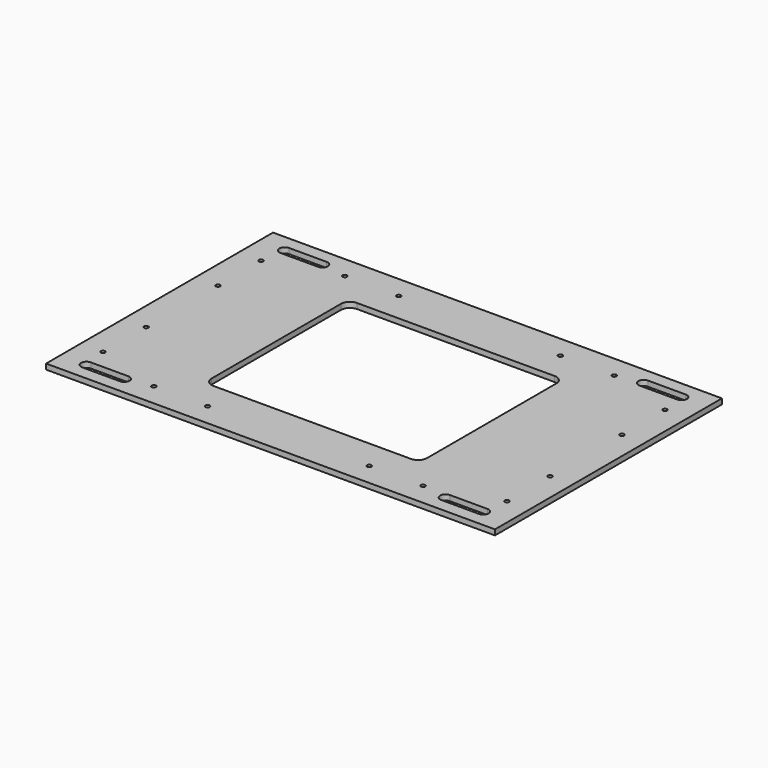
from build123d import *

# Parameters (mm, degrees)
F0_W     = 250
F0_H     = 158
F0_R     = 1.2
F0_W_2   = 120
F0_H_2   = 100
F1_DEPTH = 3
F2_R     = 5


with BuildPart() as f1:
    # F0 (on Top) → F1 (new body)
    with BuildSketch(Plane.XY):
        Rectangle(F0_W, F0_H)
        with BuildLine():
            ThreePointArc((-89.5, -66), (-86.5, -69), (-89.5, -72))
            Line((-89.5, -72), (-110.5, -72))
            ThreePointArc((-110.5, -72), (-113.5, -69), (-110.5, -66))
            Line((-110.5, -66), (-89.5, -66))
        make_face(mode=Mode.SUBTRACT)
        with Locations((-75, -66.5)):
            Circle(F0_R, mode=Mode.SUBTRACT)
        with Locations((-112.5, -55)):
            Circle(F0_R, mode=Mode.SUBTRACT)
        with Locations((-45, -66.5)):
            Circle(F0_R, mode=Mode.SUBTRACT)
        with Locations((-112.5, -25)):
            Circle(F0_R, mode=Mode.SUBTRACT)
        with Locations((45, -66.5)):
            Circle(F0_R, mode=Mode.SUBTRACT)
        with Locations((75, -66.5)):
            Circle(F0_R, mode=Mode.SUBTRACT)
        with BuildLine():
            ThreePointArc((89.5, -72), (86.5, -69), (89.5, -66))
            Line((89.5, -66), (110.5, -66))
            ThreePointArc((110.5, -66), (113.5, -69), (110.5, -72))
            Line((110.5, -72), (89.5, -72))
        make_face(mode=Mode.SUBTRACT)
        with Locations((112.5, -55)):
            Circle(F0_R, mode=Mode.SUBTRACT)
        with Locations((112.5, -25)):
            Circle(F0_R, mode=Mode.SUBTRACT)
        with Locations((-112.5, 25)):
            Circle(F0_R, mode=Mode.SUBTRACT)
        with Locations((-112.5, 55)):
            Circle(F0_R, mode=Mode.SUBTRACT)
        with BuildLine():
            ThreePointArc((-89.5, 72), (-86.5, 69), (-89.5, 66))
            Line((-89.5, 66), (-110.5, 66))
            ThreePointArc((-110.5, 66), (-113.5, 69), (-110.5, 72))
            Line((-110.5, 72), (-89.5, 72))
        make_face(mode=Mode.SUBTRACT)
        with Locations((-75, 66.5)):
            Circle(F0_R, mode=Mode.SUBTRACT)
        with Locations((-45, 66.5)):
            Circle(F0_R, mode=Mode.SUBTRACT)
        Rectangle(F0_W_2, F0_H_2, mode=Mode.SUBTRACT)
        with Locations((112.5, 25)):
            Circle(F0_R, mode=Mode.SUBTRACT)
        with Locations((45, 66.5)):
            Circle(F0_R, mode=Mode.SUBTRACT)
        with Locations((112.5, 55)):
            Circle(F0_R, mode=Mode.SUBTRACT)
        with Locations((75, 66.5)):
            Circle(F0_R, mode=Mode.SUBTRACT)
        with BuildLine():
            ThreePointArc((110.5, 72), (113.5, 69), (110.5, 66))
            Line((110.5, 66), (89.5, 66))
            ThreePointArc((89.5, 66), (86.5, 69), (89.5, 72))
            Line((89.5, 72), (110.5, 72))
        make_face(mode=Mode.SUBTRACT)
    extrude(amount=F1_DEPTH)

    # F2
    f2_edges = [f1.edges().sort_by_distance(p)[0] for p in [
        (-60, 50, 1.5),
        (-60, -50, 1.5),
        (60, -50, 1.5),
        (60, 50, 1.5),
    ]]
    fillet(f2_edges, radius=F2_R)


solid = f1.part
